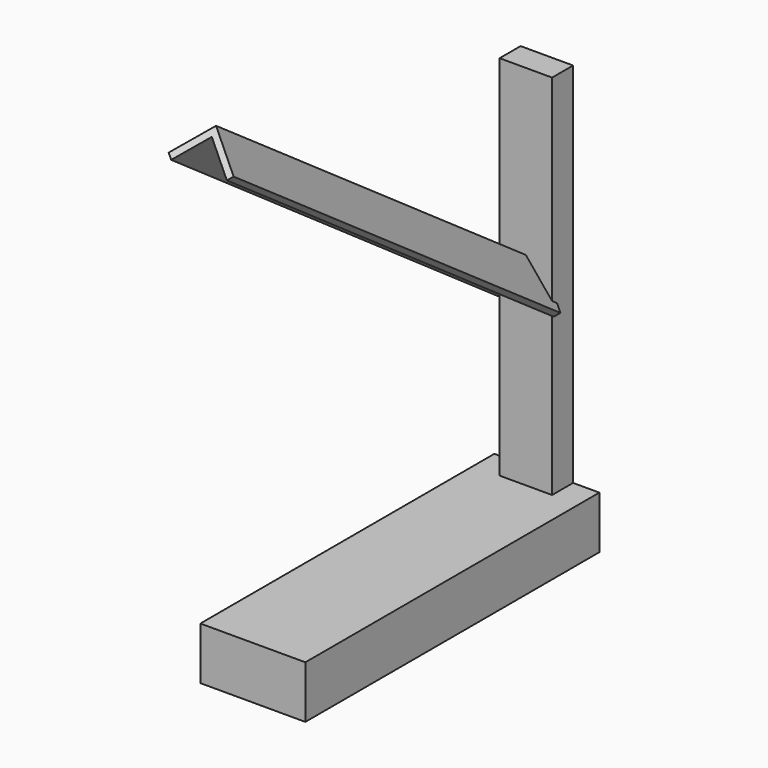
from build123d import *

# Parameters (mm, degrees)
F0_W     = 50.8
F0_H     = 177.8
F1_DEPTH = 25.4
F3_W     = 25.4
F3_H     = 12.7
F4_DEPTH = 101.6
F8_DEPTH = 241.3


with BuildPart() as f1:
    # F0 (on Top) → F1 (new body)
    with BuildSketch(Plane.XY):
        with Locations((0, -76.2)):
            Rectangle(F0_W, F0_H)
    extrude(amount=-F1_DEPTH)

    # F3 (on offset) → F4 (join, symmetric)
    with BuildSketch(Plane.XY.offset(76.2)):
        with Locations((0, 6.35)):
            Rectangle(F3_W, F3_H)
    extrude(amount=F4_DEPTH, both=True)

    # F7 (on face) → F8 (join)
    with BuildSketch(Plane(origin=(0, -35.802289, 25.069033), x_dir=(-1, 0, 0), z_dir=(0, 0.819152, -0.573576))):
        Polygon((-13.470384, 62.419386), (0, 75.88977), (13.470384, 62.419386), (15.715448, 64.66445), (0, 80.379898), (-15.715448, 64.66445), align=None)
    extrude(amount=-F8_DEPTH)


solid = f1.part
